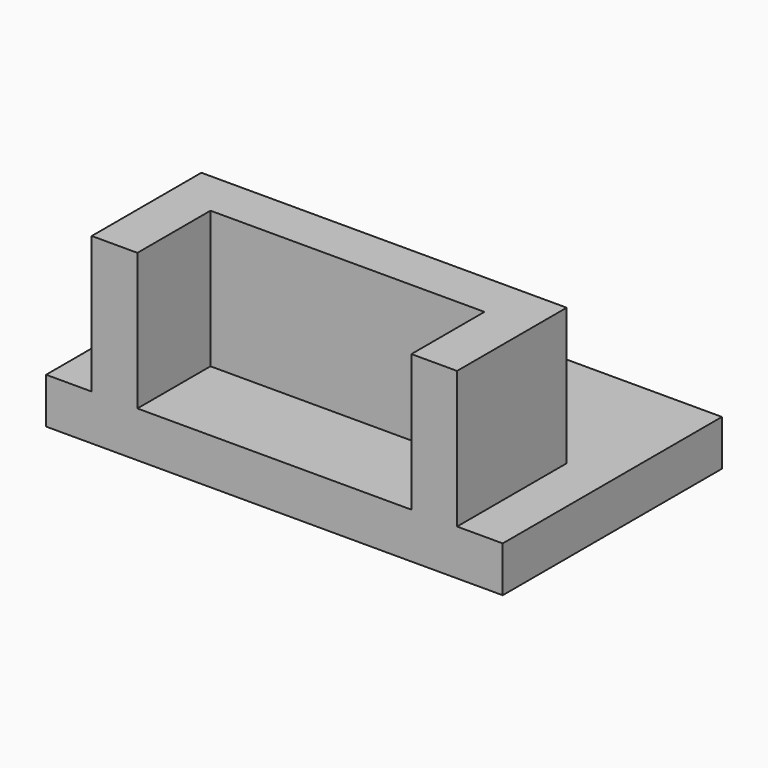
from build123d import *

# Parameters (mm, degrees)
F0_W     = 6.35
F0_H     = 12.7
F0_H_2   = 6.35
F0_W_2   = 38.1
F1_DEPTH = 25.4
F2_DEPTH = 6.35


with BuildPart() as f1:
    # F0 (on Top) → F1 (new body)
    with BuildSketch(Plane.XY):
        with Locations((22.225, -12.7)):
            Rectangle(F0_W, F0_H)
        with Locations((22.225, -3.175)):
            Rectangle(F0_W, F0_H_2)
        with Locations((0, -3.175)):
            Rectangle(F0_W_2, F0_H_2)
        with Locations((-22.225, -3.175)):
            Rectangle(F0_W, F0_H_2)
        with Locations((-22.225, -12.7)):
            Rectangle(F0_W, F0_H)
    extrude(amount=F1_DEPTH)

    # F0 (on Top) → F2 (join)
    with BuildSketch(Plane.XY):
        Polygon((31.75, 19.05), (-31.75, 19.05), (-31.75, -19.05), (-25.4, -19.05), (-25.4, -6.35), (-25.4, 0), (-19.05, 0), (19.05, 0), (25.4, 0), (25.4, -6.35), (25.4, -19.05), (31.75, -19.05), align=None)
        with Locations((-22.225, -12.7)):
            Rectangle(F0_W, F0_H)
        with Locations((22.225, -12.7)):
            Rectangle(F0_W, F0_H)
        with Locations((0, -12.7)):
            Rectangle(F0_W_2, F0_H)
    extrude(amount=F2_DEPTH)


solid = f1.part
